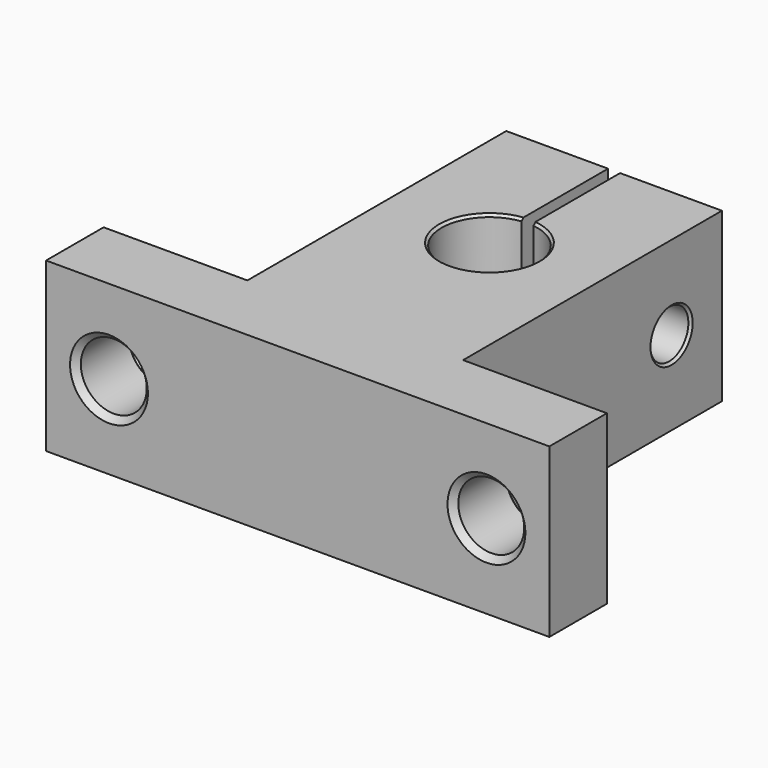
from build123d import *

# Parameters (mm, degrees)
CYLINDER031_R      = 3.5
CYLINDER031_DEPTH  = 4.75
CYLINDER030_R      = 2
CYLINDER030_DEPTH  = 18
CYLINDER028_R      = 4
CYLINDER028_DEPTH  = 14
BOX009_W           = 1
BOX009_H           = 10
BOX009_DEPTH       = 14
CYLINDER029_R      = 2.75
CYLINDER029_DEPTH  = 6
CYLINDER027_R      = 2.75
CYLINDER027_DEPTH  = 6
BOX008_W           = 42
BOX008_H           = 6
BOX008_DEPTH       = 14
BOX010_W           = 18
BOX010_H           = 27
BOX010_DEPTH       = 14
CHAMFER001002_SIZE = 0.5
CHAMFER027_SIZE    = 0.2


with BuildPart() as cylinder031:
    # Cylinder031 → Cylinder031 (new body)
    with BuildSketch(Plane(origin=(0, 21.75, 7), x_dir=(0, 0, -1), z_dir=(1, 0, 0))):
        Circle(CYLINDER031_R)
    extrude(amount=CYLINDER031_DEPTH)


with BuildPart() as cylinder030:
    # Cylinder030 → Cylinder030 (new body)
    with BuildSketch(Plane(origin=(0, 21.75, 7), x_dir=(0, 0, -1), z_dir=(1, 0, 0))):
        Circle(CYLINDER030_R)
    extrude(amount=CYLINDER030_DEPTH)


with BuildPart() as cylinder028:
    # Cylinder028 → Cylinder028 (new body)
    with BuildSketch(Plane(origin=(9, 14, 0), x_dir=(1, 0, 0), z_dir=(0, 0, 1))):
        Circle(CYLINDER028_R)
    extrude(amount=CYLINDER028_DEPTH)


with BuildPart() as cube004:
    # Box009 → Box009 (new body)
    with BuildSketch(Plane(origin=(8.5, 17, 0), x_dir=(1, 0, 0), z_dir=(0, 0, 1))):
        with Locations((0.5, 5)):
            Rectangle(BOX009_W, BOX009_H)
    extrude(amount=BOX009_DEPTH)


with BuildPart() as cylinder029:
    # Cylinder029 → Cylinder029 (new body)
    with BuildSketch(Plane(origin=(24.75, 0, 7), x_dir=(1, 0, 0), z_dir=(0, -1, 0))):
        Circle(CYLINDER029_R)
    extrude(amount=CYLINDER029_DEPTH)


with BuildPart() as cylinder027:
    # Cylinder027 → Cylinder027 (new body)
    with BuildSketch(Plane(origin=(-6.75, 0, 7), x_dir=(1, 0, 0), z_dir=(0, -1, 0))):
        Circle(CYLINDER027_R)
    extrude(amount=CYLINDER027_DEPTH)


with BuildPart() as cube003:
    # Box008 → Box008 (new body)
    with BuildSketch(Plane(origin=(-12, -6, 0), x_dir=(1, 0, 0), z_dir=(0, 0, 1))):
        with Locations((21, 3)):
            Rectangle(BOX008_W, BOX008_H)
    extrude(amount=BOX008_DEPTH)


with BuildPart() as chamfer027:
    # Box010 → Box010 (new body)
    with BuildSketch(Plane.XY):
        with Locations((9, 13.5)):
            Rectangle(BOX010_W, BOX010_H)
    extrude(amount=BOX010_DEPTH)

    # Fusion007004: union Cube003
    add(cube003.part)

    # Cut002015: cut Cylinder027
    add(cylinder027.part, mode=Mode.SUBTRACT)

    # Cut002011: cut Cylinder029
    add(cylinder029.part, mode=Mode.SUBTRACT)

    # Cut002016: cut Cube004
    add(cube004.part, mode=Mode.SUBTRACT)

    # Cut002012: cut Cylinder028
    add(cylinder028.part, mode=Mode.SUBTRACT)

    # Cut002013: cut Cylinder030
    add(cylinder030.part, mode=Mode.SUBTRACT)

    # Cut002014: cut Cylinder031
    add(cylinder031.part, mode=Mode.SUBTRACT)

    # Chamfer001002
    chamfer001002_edges = [chamfer027.edges().sort_by_distance(p)[0] for p in [
        (0, 21.75, 10.5),
        (-9.5, 0, 7),
        (22, 0, 7),
        (-9.5, -6, 7),
        (22, -6, 7),
    ]]
    chamfer(chamfer001002_edges, length=CHAMFER001002_SIZE)

    # Chamfer027
    chamfer027_edges = [chamfer027.edges().sort_by_distance(p)[0] for p in [
        (6.354249, 11, 14),
        (12, 16.645751, 14),
        (6.354249, 11, 0),
        (12, 16.645751, 0),
        (18, 21.75, 9),
    ]]
    chamfer(chamfer027_edges, length=CHAMFER027_SIZE)


solid = chamfer027.part
